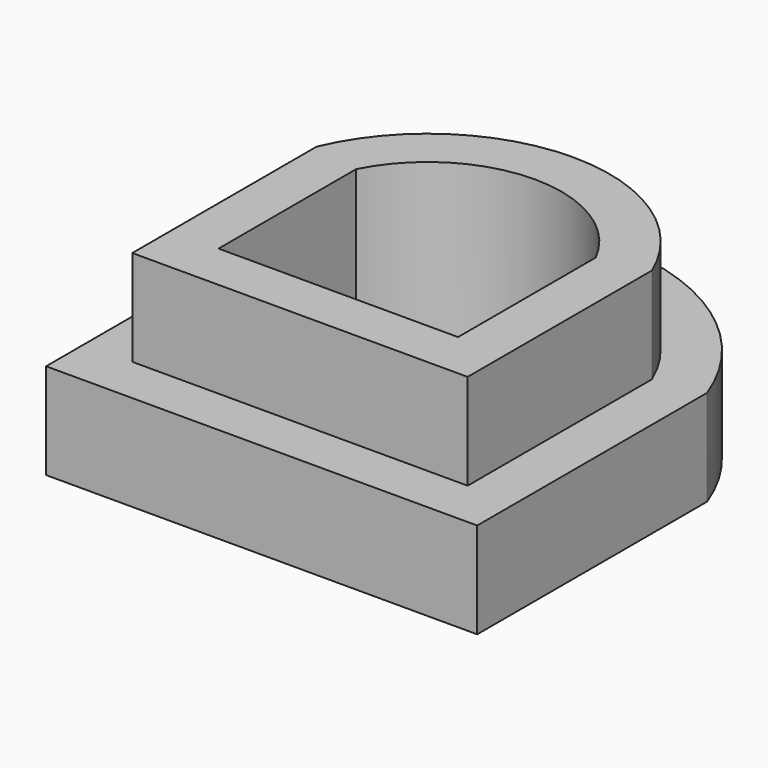
from build123d import *

# Parameters (mm, degrees)
F0_W     = 45
F0_H     = 30
F1_DEPTH = 10
F3_DEPTH = 10
F5_DEPTH = 20


with BuildPart() as f1:
    # F0 (on Top) → F1 (new body)
    with BuildSketch(Plane.XY):
        with Locations((22.5, 15)):
            Rectangle(F0_W, F0_H)
        with BuildLine():
            ThreePointArc((45, 30), (22.5, 45.648353), (0, 30))
            Line((0, 30), (45, 30))
        make_face()
    extrude(amount=F1_DEPTH)

    # F2 (on face) → F3 (join)
    with BuildSketch(Plane.XY.offset(10)):
        with BuildLine():
            Line((5, 5), (40, 5))
            Line((40, 5), (40, 29.047678))
            ThreePointArc((40, 29.047678), (22.5, 40.648353), (5, 29.047678))
            Line((5, 29.047678), (5, 5))
        make_face()
    extrude(amount=F3_DEPTH)

    # F4 (on face) → F5 (cut)
    with BuildSketch(Plane.XY.offset(20)):
        with BuildLine():
            Line((10, 27.953114), (10, 10))
            Line((10, 10), (35, 10))
            Line((35, 10), (35, 27.953114))
            ThreePointArc((35, 27.953114), (22.5, 35.648353), (10, 27.953114))
        make_face()
    extrude(amount=-F5_DEPTH, mode=Mode.SUBTRACT)


solid = f1.part
